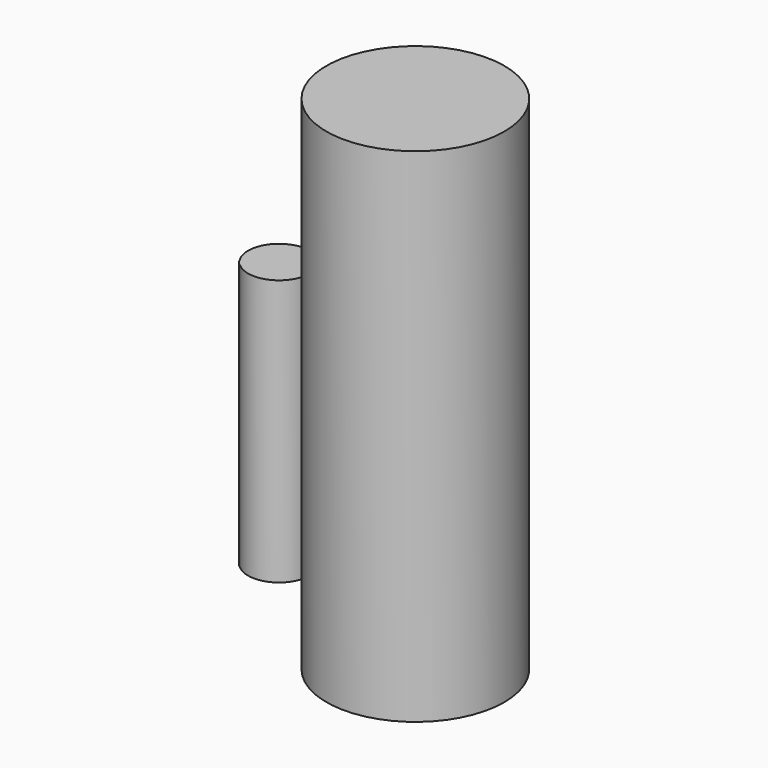
from build123d import *

# Parameters (mm, degrees)
F0_R     = 25.1397664288
F1_DEPTH = 75.184
F0_R_2   = 17.3566653616
F2_DEPTH = 66.802


with BuildPart() as f1:
    # F0 (on Top) → F1 (new body)
    with BuildSketch(Plane.XY):
        with Locations((-80.0974220037, -53.1914457679)):
            Circle(F0_R)
    extrude(amount=F1_DEPTH)

    # F2 (add): a face of the model
    f2_faces = [f1.faces().sort_by_distance(p)[0] for p in [
        (-80.0974220037, -53.1914457679, 75.184),
    ]]
    extrude(f2_faces, amount=F2_DEPTH)


with BuildPart() as f1b:
    # F0 (on Top) → F1, piece 2 (new body)
    with BuildSketch(Plane.XY):
        with Locations((-130.9924125671, 22.3267357796)):
            Circle(F0_R_2)
    extrude(amount=F1_DEPTH)


with BuildPart() as f1c:
    # F0 (on Top) → F1, piece 3 (new body)
    with BuildSketch(Plane.XY):
        with BuildLine():
            ThreePointArc((-140.7282212122, -39.3397888884), (-131.3539457938, -40.7293610775), (-126.2188676414, -32.764505595))
            ThreePointArc((-126.2188676414, -32.764505595), (-137.3981445081, -24.3657330714), (-142.3521933282, -37.4413979284))
            ThreePointArc((-142.3521933282, -37.4413979284), (-139.5081938997, -32.2908097934), (-134.9771099305, -36.0439643264))
            ThreePointArc((-134.9771099305, -36.0439643264), (-136.8977114693, -39.3582417936), (-140.7282212122, -39.3397888884))
        make_face()
        with BuildLine():
            ThreePointArc((-134.9771099305, -36.0439643264), (-139.5081938997, -32.2908097934), (-142.3521933282, -37.4413979284))
            ThreePointArc((-142.3521933282, -37.4413979284), (-141.6083506443, -38.4488864269), (-140.7282212122, -39.3397888884))
            ThreePointArc((-140.7282212122, -39.3397888884), (-136.8977114693, -39.3582417936), (-134.9771099305, -36.0439643264))
        make_face()
        with BuildLine():
            ThreePointArc((-140.7282212122, -39.3397888884), (-141.6083506443, -38.4488864269), (-142.3521933282, -37.4413979284))
            ThreePointArc((-142.3521933282, -37.4413979284), (-141.6997870177, -38.5271053628), (-140.7282212122, -39.3397888884))
        make_face()
    extrude(amount=F1_DEPTH)


solid = Compound([f1.part, f1b.part, f1c.part])
